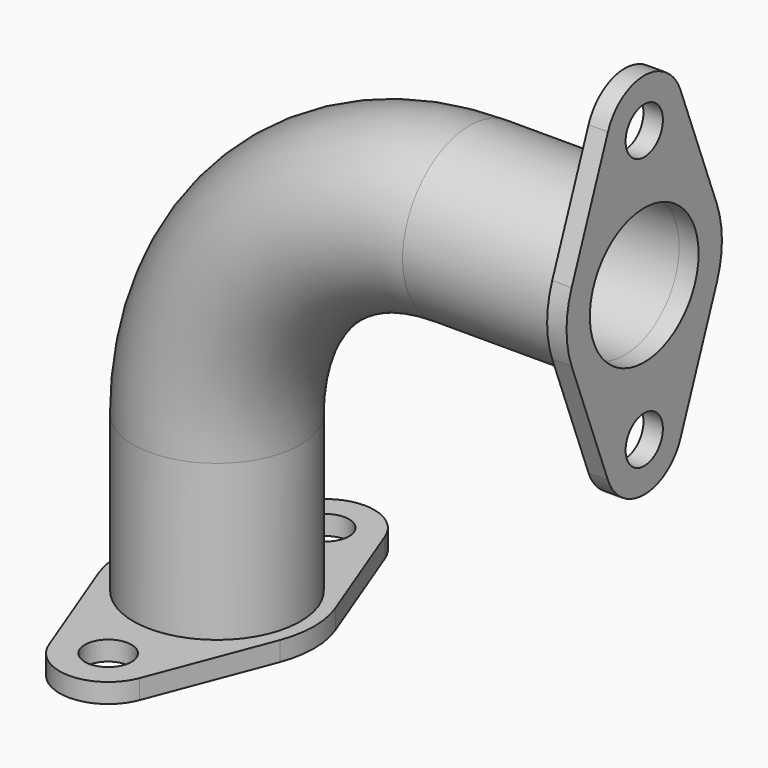
from build123d import *

# Parameters (mm, degrees)
SKETCH001_R   = 21.5
SKETCH001_R_2 = 17.5
SKETCH002_R   = 6
SKETCH002_R_2 = 17.5
PAD_DEPTH     = 5
BINDER_R      = 17.5
BINDER_R_2    = 6
EXTRUDE_DEPTH = 5


with BuildPart() as body:
    # AdditivePipe: sweep along a path in Sketch
    with BuildLine(Plane.XZ) as additivepipe_path:
        Line((-105, -105), (-105, -65))
        ThreePointArc((-105, -65), (-85.961941, -19.038059), (-40, 0))
        Line((-40, 0), (0, 0))
    # Sketch001 → AdditivePipe (sweep)
    with BuildSketch(Plane.YZ):
        Circle(SKETCH001_R)
        Circle(SKETCH001_R_2, mode=Mode.SUBTRACT)
    sweep(path=additivepipe_path.line)

    # Sketch002 (on Face5 of AdditivePipe) → Pad (new body)
    with BuildSketch(Plane.YZ):
        with BuildLine():
            Line((-11.675622, 39.464286), (-23.351244, 8.928571))
            ThreePointArc((-23.351244, 8.928571), (-25, 0), (-23.351244, -8.928571))
            Line((-23.351244, -8.928571), (-11.675622, -39.464286))
            ThreePointArc((-11.675622, -39.464286), (0, -47.5), (11.675622, -39.464286))
            Line((11.675622, -39.464286), (23.351244, -8.928571))
            ThreePointArc((23.351244, -8.928571), (25, 0), (23.351244, 8.928571))
            Line((23.351244, 8.928571), (11.675622, 39.464286))
            ThreePointArc((11.675622, 39.464286), (0, 47.5), (-11.675622, 39.464286))
        make_face()
        with Locations((0, 35)):
            Circle(SKETCH002_R, mode=Mode.SUBTRACT)
        with Locations((0, -35)):
            Circle(SKETCH002_R, mode=Mode.SUBTRACT)
        Circle(SKETCH002_R_2, mode=Mode.SUBTRACT)
    extrude(amount=PAD_DEPTH)


with BuildPart() as extrude_body:
    # Binder → Extrude (new body)
    with BuildSketch(Plane(origin=(-105, 0, -105), x_dir=(0, 1, 0), z_dir=(0, 0, 1))):
        with BuildLine():
            Line((-39.464286, -11.675622), (-8.928571, -23.351244))
            ThreePointArc((-8.928571, -23.351244), (0, -25), (8.928571, -23.351244))
            Line((8.928571, -23.351244), (39.464286, -11.675622))
            ThreePointArc((39.464286, -11.675622), (47.5, 0), (39.464286, 11.675622))
            Line((39.464286, 11.675622), (8.928571, 23.351244))
            ThreePointArc((8.928571, 23.351244), (0, 25), (-8.928571, 23.351244))
            Line((-8.928571, 23.351244), (-39.464286, 11.675622))
            ThreePointArc((-39.464286, 11.675622), (-47.5, 0), (-39.464286, -11.675622))
        make_face()
        Circle(BINDER_R, mode=Mode.SUBTRACT)
        with Locations((35, 0)):
            Circle(BINDER_R_2, mode=Mode.SUBTRACT)
        with Locations((-35, 0)):
            Circle(BINDER_R_2, mode=Mode.SUBTRACT)
    extrude(amount=-EXTRUDE_DEPTH)


solid = Compound([body.part, extrude_body.part])
